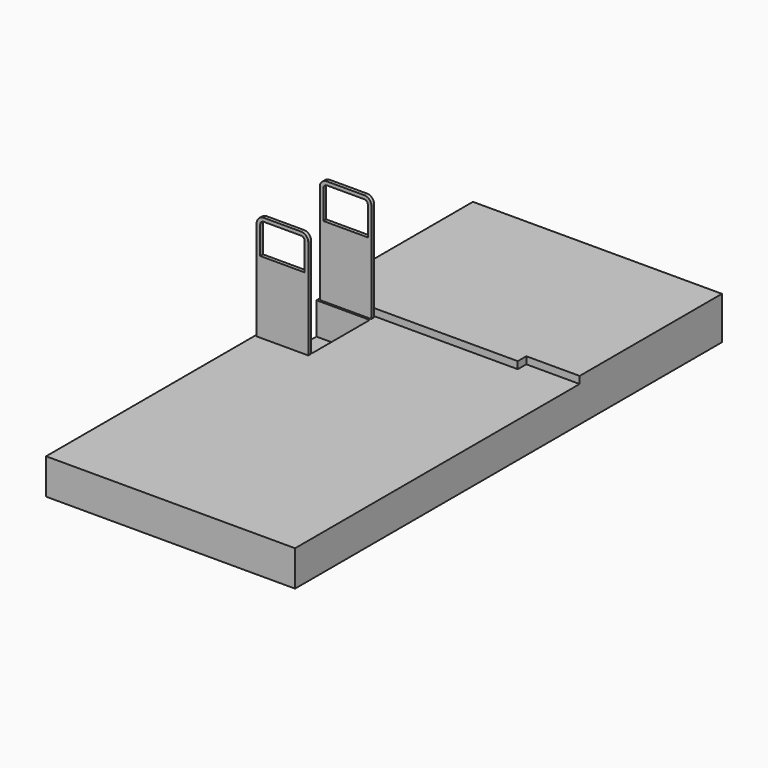
from build123d import *

# Parameters (mm, degrees)
F1_DEPTH  = 50.8
F0_W      = 381
F0_H      = 609.6
F2_DEPTH  = 254
F3_W      = 381
F3_H      = 508
F4_DEPTH  = 228.6
F5_W      = 368.3
F5_H      = 25.4
F6_DEPTH  = 762
F7_R      = 50.8
F8_R      = 50.8
F10_DEPTH = 25.4
F11_W     = 368.3
F11_H     = 25.4
F12_DEPTH = 762
F13_R     = 50.8
F14_R     = 50.8
F16_DEPTH = 25.4


with BuildPart() as f1:
    # F0 (on Top) → F1 (new body)
    with BuildSketch(Plane.XY):
        Polygon((889, 1905), (-889, 1905), (-889, 558.8), (508, 558.8), (508, 635), (889, 635), align=None)
    extrude(amount=F1_DEPTH)

    # F0 (on Top) → F2 (join)
    with BuildSketch(Plane.XY):
        Polygon((889, 1905), (-889, 1905), (-889, 558.8), (508, 558.8), (508, 635), (889, 635), align=None)
        Polygon((508, 558.8), (-889, 558.8), (-889, 304.8), (-508, 304.8), (-508, -304.8), (-889, -304.8), (-889, -1905), (889, -1905), (889, 635), (508, 635), align=None)
        with Locations((-698.5, 0)):
            Rectangle(F0_W, F0_H)
    extrude(amount=-F2_DEPTH)

    # F3 (on face) → F4 (cut)
    with BuildSketch(Plane.XY):
        with Locations((-698.5, 254)):
            Rectangle(F3_W, F3_H)
    extrude(amount=-F4_DEPTH, mode=Mode.SUBTRACT)

    # F5 (on face) → F6 (join)
    with BuildSketch(Plane.XY):
        with Locations((-692.15, 534.827676)):
            Rectangle(F5_W, F5_H)
    extrude(amount=F6_DEPTH)

    # F7
    f7_edges = [f1.edges().sort_by_distance(p)[0] for p in [
        (-876.3, 534.827676, 762),
    ]]
    fillet(f7_edges, radius=F7_R)

    # F8
    f8_edges = [f1.edges().sort_by_distance(p)[0] for p in [
        (-508, 534.827676, 762),
    ]]
    fillet(f8_edges, radius=F8_R)

    # F9 (on face) → F10 (cut)
    with BuildSketch(Plane.XZ.offset(-522.127676)):
        with BuildLine():
            Line((-850.9, 711.2), (-850.9, 504.975423))
            Line((-850.9, 504.975423), (-533.4, 504.975423))
            Line((-533.4, 504.975423), (-533.4, 711.2))
            ThreePointArc((-533.4, 711.2), (-540.839488, 729.160512), (-558.8, 736.6))
            Line((-558.8, 736.6), (-825.5, 736.6))
            ThreePointArc((-825.5, 736.6), (-843.460512, 729.160512), (-850.9, 711.2))
        make_face()
    extrude(amount=-F10_DEPTH, mode=Mode.SUBTRACT)

    # F11 (on face) → F12 (join)
    with BuildSketch(Plane.XY):
        with Locations((-692.15, -28.393558)):
            Rectangle(F11_W, F11_H)
    extrude(amount=F12_DEPTH)

    # F13
    f13_edges = [f1.edges().sort_by_distance(p)[0] for p in [
        (-876.3, -28.393558, 762),
    ]]
    fillet(f13_edges, radius=F13_R)

    # F14
    f14_edges = [f1.edges().sort_by_distance(p)[0] for p in [
        (-508, -28.393558, 762),
    ]]
    fillet(f14_edges, radius=F14_R)

    # F15 (on face) → F16 (cut)
    with BuildSketch(Plane.XZ.offset(41.093558)):
        with BuildLine():
            Line((-850.9, 711.2), (-850.9, 513.656903))
            Line((-850.9, 513.656903), (-533.4, 513.656903))
            Line((-533.4, 513.656903), (-533.4, 711.2))
            ThreePointArc((-533.4, 711.2), (-540.839488, 729.160512), (-558.8, 736.6))
            Line((-558.8, 736.6), (-825.5, 736.6))
            ThreePointArc((-825.5, 736.6), (-843.460512, 729.160512), (-850.9, 711.2))
        make_face()
    extrude(amount=-F16_DEPTH, mode=Mode.SUBTRACT)


solid = f1.part
